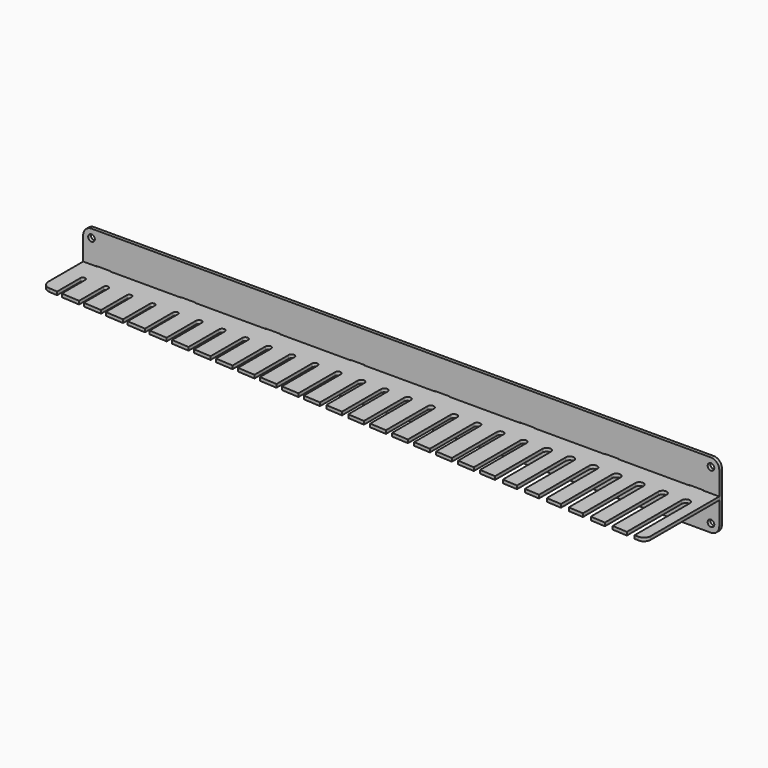
from build123d import *

# Parameters (mm, degrees)
F0_R     = 3.175
F1_DEPTH = 3.175
F2_W     = 12.7
F2_H     = 3.175
F3_DEPTH = 3.175


with BuildPart() as f1:
    # F0 (on Front) → F1 (new body)
    with BuildSketch(Plane.XZ):
        with BuildLine():
            ThreePointArc((-304.8, -23.7998), (-302.4714403318, -29.4214403318), (-296.8498, -31.75))
            Line((-296.8498, -31.75), (296.8498, -31.75))
            ThreePointArc((296.8498, -31.75), (302.4714403318, -29.4214403318), (304.8, -23.7998))
            Line((304.8, -23.7998), (304.8, 23.7998))
            ThreePointArc((304.8, 23.7998), (302.4714403318, 29.4214403318), (296.8498, 31.75))
            Line((296.8498, 31.75), (-296.8498, 31.75))
            ThreePointArc((-296.8498, 31.75), (-302.4714403318, 29.4214403318), (-304.8, 23.7998))
            Line((-304.8, 23.7998), (-304.8, -23.7998))
        make_face()
        with Locations((-296.8498, -23.7998)):
            Circle(F0_R, mode=Mode.SUBTRACT)
        with Locations((296.8498, -23.7998)):
            Circle(F0_R, mode=Mode.SUBTRACT)
        with BuildLine():
            Line((-279.4, -1.778), (-292.1, -1.778))
            ThreePointArc((-292.1, -1.778), (-293.878, 0), (-292.1, 1.778))
            Line((-292.1, 1.778), (-279.4, 1.778))
            ThreePointArc((-279.4, 1.778), (-277.622, 0), (-279.4, -1.778))
        make_face(mode=Mode.SUBTRACT)
        with BuildLine():
            Line((-198.12, -1.778), (-210.82, -1.778))
            ThreePointArc((-210.82, -1.778), (-212.598, 0), (-210.82, 1.778))
            Line((-210.82, 1.778), (-198.12, 1.778))
            ThreePointArc((-198.12, 1.778), (-196.342, 0), (-198.12, -1.778))
        make_face(mode=Mode.SUBTRACT)
        with BuildLine():
            Line((-116.84, -1.778), (-129.54, -1.778))
            ThreePointArc((-129.54, -1.778), (-131.318, 0), (-129.54, 1.778))
            Line((-129.54, 1.778), (-116.84, 1.778))
            ThreePointArc((-116.84, 1.778), (-115.062, 0), (-116.84, -1.778))
        make_face(mode=Mode.SUBTRACT)
        with BuildLine():
            Line((-35.56, -1.778), (-48.26, -1.778))
            ThreePointArc((-48.26, -1.778), (-50.038, 0), (-48.26, 1.778))
            Line((-48.26, 1.778), (-35.56, 1.778))
            ThreePointArc((-35.56, 1.778), (-33.782, 0), (-35.56, -1.778))
        make_face(mode=Mode.SUBTRACT)
        with Locations((-296.8498, 23.7998)):
            Circle(F0_R, mode=Mode.SUBTRACT)
        with BuildLine():
            Line((45.72, -1.778), (33.02, -1.778))
            ThreePointArc((33.02, -1.778), (31.242, 0), (33.02, 1.778))
            Line((33.02, 1.778), (45.72, 1.778))
            ThreePointArc((45.72, 1.778), (47.498, 0), (45.72, -1.778))
        make_face(mode=Mode.SUBTRACT)
        with BuildLine():
            Line((127, -1.778), (114.3, -1.778))
            ThreePointArc((114.3, -1.778), (112.522, 0), (114.3, 1.778))
            Line((114.3, 1.778), (127, 1.778))
            ThreePointArc((127, 1.778), (128.778, 0), (127, -1.778))
        make_face(mode=Mode.SUBTRACT)
        with BuildLine():
            Line((208.28, -1.778), (195.58, -1.778))
            ThreePointArc((195.58, -1.778), (193.802, 0), (195.58, 1.778))
            Line((195.58, 1.778), (208.28, 1.778))
            ThreePointArc((208.28, 1.778), (210.058, 0), (208.28, -1.778))
        make_face(mode=Mode.SUBTRACT)
        with BuildLine():
            Line((289.56, -1.778), (276.86, -1.778))
            ThreePointArc((276.86, -1.778), (275.082, 0), (276.86, 1.778))
            Line((276.86, 1.778), (289.56, 1.778))
            ThreePointArc((289.56, 1.778), (291.338, 0), (289.56, -1.778))
        make_face(mode=Mode.SUBTRACT)
        with Locations((296.8498, 23.7998)):
            Circle(F0_R, mode=Mode.SUBTRACT)
    extrude(amount=F1_DEPTH)


with BuildPart() as f3:
    # F2 (on face) → F3 (new body)
    with BuildSketch(Plane.XY.offset(-1.778)):
        with BuildLine():
            Line((304.8, -3.175), (289.56, -3.175))
            Line((289.56, -3.175), (289.56, 0))
            Line((289.56, 0), (276.86, 0))
            Line((276.86, 0), (276.86, -3.175))
            Line((276.86, -3.175), (208.28, -3.175))
            Line((208.28, -3.175), (208.28, 0))
            Line((208.28, 0), (195.58, 0))
            Line((195.58, 0), (195.58, -3.175))
            Line((195.58, -3.175), (127, -3.175))
            Line((127, -3.175), (127, 0))
            Line((127, 0), (114.3, 0))
            Line((114.3, 0), (114.3, -3.175))
            Line((114.3, -3.175), (45.72, -3.175))
            Line((45.72, -3.175), (45.72, 0))
            Line((45.72, 0), (33.02, 0))
            Line((33.02, 0), (33.02, -3.175))
            Line((33.02, -3.175), (-35.56, -3.175))
            Line((-35.56, -3.175), (-35.56, 0))
            Line((-35.56, 0), (-48.26, 0))
            Line((-48.26, 0), (-48.26, -3.175))
            Line((-48.26, -3.175), (-116.84, -3.175))
            Line((-116.84, -3.175), (-116.84, 0))
            Line((-116.84, 0), (-129.54, 0))
            Line((-129.54, 0), (-129.54, -3.175))
            Line((-129.54, -3.175), (-198.12, -3.175))
            Line((-198.12, -3.175), (-198.12, 0))
            Line((-198.12, 0), (-210.82, 0))
            Line((-210.82, 0), (-210.82, -3.175))
            Line((-210.82, -3.175), (-279.4, -3.175))
            Line((-279.4, -3.175), (-292.1, -3.175))
            Line((-292.1, -3.175), (-304.8, -3.175))
            Line((-304.8, -3.175), (-304.8, -44.8656278761))
            ThreePointArc((-304.8, -44.8656278761), (-302.6523592368, -50.3003299234), (-297.3697501086, -52.7988070575))
            Line((-297.3697501086, -52.7988070575), (-289.7124, -53.3006789967))
            Line((-289.7124, -53.3006789967), (-289.7124, -25.4))
            ThreePointArc((-289.7124, -25.4), (-287.3375, -23.0251), (-284.9626, -25.4))
            Line((-284.9626, -25.4), (-284.9626, -53.6119866036))
            Line((-284.9626, -53.6119866036), (-267.4874, -54.7573322374))
            Line((-267.4874, -54.7573322374), (-267.4874, -25.4))
            ThreePointArc((-267.4874, -25.4), (-265.1125, -23.0251), (-262.7376, -25.4))
            Line((-262.7376, -25.4), (-262.7376, -55.0686398442))
            Line((-262.7376, -55.0686398442), (-245.2624, -56.213985478))
            Line((-245.2624, -56.213985478), (-245.2624, -25.4))
            ThreePointArc((-245.2624, -25.4), (-242.8875, -23.0251), (-240.5126, -25.4))
            Line((-240.5126, -25.4), (-240.5126, -56.5252930848))
            Line((-240.5126, -56.5252930848), (-223.0374, -57.6706387186))
            Line((-223.0374, -57.6706387186), (-223.0374, -25.4))
            ThreePointArc((-223.0374, -25.4), (-220.6625, -23.0251), (-218.2876, -25.4))
            Line((-218.2876, -25.4), (-218.2876, -57.9819463255))
            Line((-218.2876, -57.9819463255), (-200.8124, -59.1272919592))
            Line((-200.8124, -59.1272919592), (-200.8124, -25.4))
            ThreePointArc((-200.8124, -25.4), (-198.4375, -23.0251), (-196.0626, -25.4))
            Line((-196.0626, -25.4), (-196.0626, -59.4385995661))
            Line((-196.0626, -59.4385995661), (-178.990625, -60.5575173482))
            Line((-178.990625, -60.5575173482), (-178.990625, -25.4))
            ThreePointArc((-178.990625, -25.4), (-176.2125, -22.621875), (-173.434375, -25.4))
            Line((-173.434375, -25.4), (-173.434375, -60.9216806584))
            Line((-173.434375, -60.9216806584), (-156.765625, -62.0141705888))
            Line((-156.765625, -62.0141705888), (-156.765625, -25.4))
            ThreePointArc((-156.765625, -25.4), (-153.9875, -22.621875), (-151.209375, -25.4))
            Line((-151.209375, -25.4), (-151.209375, -62.378333899))
            Line((-151.209375, -62.378333899), (-134.540625, -63.4708238294))
            Line((-134.540625, -63.4708238294), (-134.540625, -25.4))
            ThreePointArc((-134.540625, -25.4), (-131.7625, -22.621875), (-128.984375, -25.4))
            Line((-128.984375, -25.4), (-128.984375, -63.8349871396))
            Line((-128.984375, -63.8349871396), (-112.315625, -64.9274770701))
            Line((-112.315625, -64.9274770701), (-112.315625, -25.4))
            ThreePointArc((-112.315625, -25.4), (-109.5375, -22.621875), (-106.759375, -25.4))
            Line((-106.759375, -25.4), (-106.759375, -65.2916403802))
            Line((-106.759375, -65.2916403802), (-90.090625, -66.3841303107))
            Line((-90.090625, -66.3841303107), (-90.090625, -25.4))
            ThreePointArc((-90.090625, -25.4), (-87.3125, -22.621875), (-84.534375, -25.4))
            Line((-84.534375, -25.4), (-84.534375, -66.7482936208))
            Line((-84.534375, -66.7482936208), (-67.865625, -67.8407835513))
            Line((-67.865625, -67.8407835513), (-67.865625, -25.4))
            ThreePointArc((-67.865625, -25.4), (-65.0875, -22.621875), (-62.309375, -25.4))
            Line((-62.309375, -25.4), (-62.309375, -68.2049468615))
            Line((-62.309375, -68.2049468615), (-45.640625, -69.2974367919))
            Line((-45.640625, -69.2974367919), (-45.640625, -25.4))
            ThreePointArc((-45.640625, -25.4), (-42.8625, -22.621875), (-40.084375, -25.4))
            Line((-40.084375, -25.4), (-40.084375, -69.6616001021))
            Line((-40.084375, -69.6616001021), (-23.8125, -70.7280783675))
            Line((-23.8125, -70.7280783675), (-23.8125, -25.4))
            ThreePointArc((-23.8125, -25.4), (-20.6375, -22.225), (-17.4625, -25.4))
            Line((-17.4625, -25.4), (-17.4625, -71.1442650077))
            Line((-17.4625, -71.1442650077), (-1.5875, -72.1847316081))
            Line((-1.5875, -72.1847316081), (-1.5875, -25.4))
            ThreePointArc((-1.5875, -25.4), (1.5875, -22.225), (4.7625, -25.4))
            Line((4.7625, -25.4), (4.7625, -72.6009182483))
            Line((4.7625, -72.6009182483), (20.6375, -73.6413848488))
            Line((20.6375, -73.6413848488), (20.6375, -25.4))
            ThreePointArc((20.6375, -25.4), (23.8125, -22.225), (26.9875, -25.4))
            Line((26.9875, -25.4), (26.9875, -74.0575714889))
            Line((26.9875, -74.0575714889), (42.8625, -75.0980380894))
            Line((42.8625, -75.0980380894), (42.8625, -25.4))
            ThreePointArc((42.8625, -25.4), (46.0375, -22.225), (49.2125, -25.4))
            Line((49.2125, -25.4), (49.2125, -75.5142247296))
            Line((49.2125, -75.5142247296), (65.0875, -76.55469133))
            Line((65.0875, -76.55469133), (65.0875, -25.4))
            ThreePointArc((65.0875, -25.4), (68.2625, -22.225), (71.4375, -25.4))
            Line((71.4375, -25.4), (71.4375, -76.9708779702))
            Line((71.4375, -76.9708779702), (87.3125, -78.0113445706))
            Line((87.3125, -78.0113445706), (87.3125, -25.4))
            ThreePointArc((87.3125, -25.4), (90.4875, -22.225), (93.6625, -25.4))
            Line((93.6625, -25.4), (93.6625, -78.4275312108))
            Line((93.6625, -78.4275312108), (109.5375, -79.4679978112))
            Line((109.5375, -79.4679978112), (109.5375, -25.4))
            ThreePointArc((109.5375, -25.4), (112.7125, -22.225), (115.8875, -25.4))
            Line((115.8875, -25.4), (115.8875, -79.8841844514))
            Line((115.8875, -79.8841844514), (131.7625, -80.9246510519))
            Line((131.7625, -80.9246510519), (131.7625, -25.4))
            ThreePointArc((131.7625, -25.4), (134.9375, -22.225), (138.1125, -25.4))
            Line((138.1125, -25.4), (138.1125, -81.340837692))
            Line((138.1125, -81.340837692), (153.1874, -82.3288647758))
            Line((153.1874, -82.3288647758), (153.1874, -25.4))
            ThreePointArc((153.1874, -25.4), (157.1625, -21.4249), (161.1376, -25.4))
            Line((161.1376, -25.4), (161.1376, -82.8499304493))
            Line((161.1376, -82.8499304493), (175.4124, -83.7855180164))
            Line((175.4124, -83.7855180164), (175.4124, -25.4))
            ThreePointArc((175.4124, -25.4), (179.3875, -21.4249), (183.3626, -25.4))
            Line((183.3626, -25.4), (183.3626, -84.3065836899))
            Line((183.3626, -84.3065836899), (197.6374, -85.2421712571))
            Line((197.6374, -85.2421712571), (197.6374, -25.4))
            ThreePointArc((197.6374, -25.4), (201.6125, -21.4249), (205.5876, -25.4))
            Line((205.5876, -25.4), (205.5876, -85.7632369306))
            Line((205.5876, -85.7632369306), (219.8624, -86.6988244977))
            Line((219.8624, -86.6988244977), (219.8624, -25.4))
            ThreePointArc((219.8624, -25.4), (223.8375, -21.4249), (227.8126, -25.4))
            Line((227.8126, -25.4), (227.8126, -87.2198901712))
            Line((227.8126, -87.2198901712), (242.0874, -88.1554777383))
            Line((242.0874, -88.1554777383), (242.0874, -25.4))
            ThreePointArc((242.0874, -25.4), (246.0625, -21.4249), (250.0376, -25.4))
            Line((250.0376, -25.4), (250.0376, -88.6765434118))
            Line((250.0376, -88.6765434118), (264.3124, -89.6121309789))
            Line((264.3124, -89.6121309789), (264.3124, -25.4))
            ThreePointArc((264.3124, -25.4), (268.2875, -21.4249), (272.2626, -25.4))
            Line((272.2626, -25.4), (272.2626, -90.1331966524))
            Line((272.2626, -90.1331966524), (286.5374, -91.0687842195))
            Line((286.5374, -91.0687842195), (286.5374, -25.4))
            ThreePointArc((286.5374, -25.4), (290.5125, -21.4249), (294.4876, -25.4))
            Line((294.4876, -25.4), (294.4876, -91.3293170563))
            ThreePointArc((294.4876, -91.3293170563), (294.485471828, -91.4593742129), (294.4790895907, -91.5892921106))
            Line((294.4790895907, -91.5892921106), (298.0347043861, -91.8223313823))
            ThreePointArc((298.0347043861, -91.8223313823), (302.7908163317, -90.1205582636), (304.8, -85.4859262853))
            Line((304.8, -85.4859262853), (304.8, -3.175))
        make_face()
        with Locations((-285.75, -1.5875)):
            Rectangle(F2_W, F2_H)
    extrude(amount=F3_DEPTH)


solid = Compound([f1.part, f3.part])
